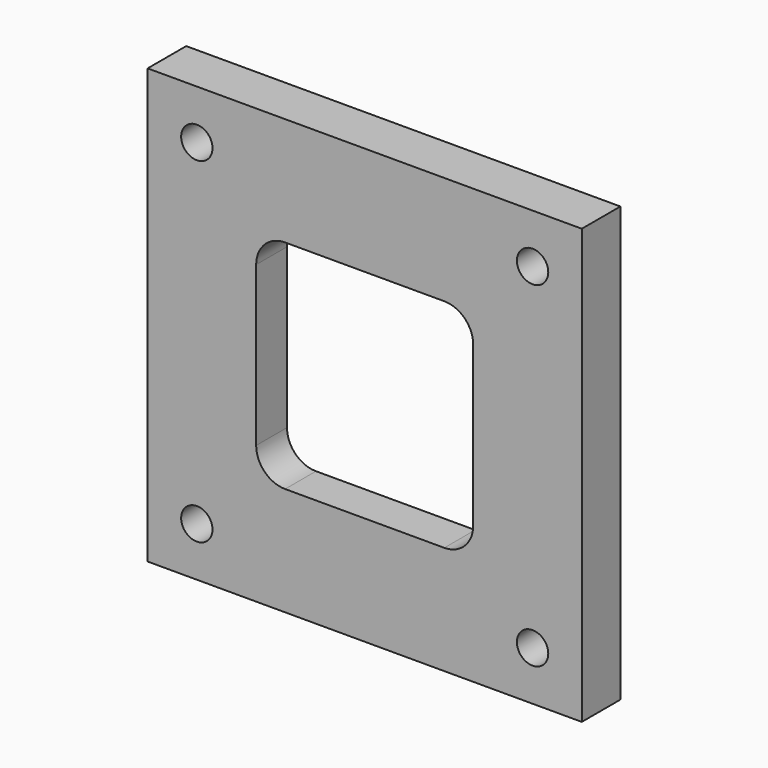
from build123d import *

# Parameters (mm, degrees)
F0_W     = 90
F0_H     = 90
F0_R     = 3.25
F1_DEPTH = 10
F3_DEPTH = 2
F5_DEPTH = 10.001


with BuildPart() as f1:
    # F0 (on Front) → F1 (new body)
    with BuildSketch(Plane.XZ):
        Rectangle(F0_W, F0_H)
        with Locations((-34.8, -34.8)):
            Circle(F0_R, mode=Mode.SUBTRACT)
        with Locations((34.8, -34.8)):
            Circle(F0_R, mode=Mode.SUBTRACT)
        with Locations((-34.8, 34.8)):
            Circle(F0_R, mode=Mode.SUBTRACT)
        with Locations((34.8, 34.8)):
            Circle(F0_R, mode=Mode.SUBTRACT)
    extrude(amount=F1_DEPTH)

    # F2 (on Front) → F3 (cut)
    with BuildSketch(Plane.XZ):
        with BuildLine():
            ThreePointArc((36.5, 32.5), (35.328427, 35.328427), (32.5, 36.5))
            Line((32.5, 36.5), (-32.5, 36.5))
            ThreePointArc((-32.5, 36.5), (-35.328427, 35.328427), (-36.5, 32.5))
            Line((-36.5, 32.5), (-36.5, -32.5))
            ThreePointArc((-36.5, -32.5), (-35.328427, -35.328427), (-32.5, -36.5))
            Line((-32.5, -36.5), (32.5, -36.5))
            ThreePointArc((32.5, -36.5), (35.328427, -35.328427), (36.5, -32.5))
            Line((36.5, -32.5), (36.5, 32.5))
        make_face()
    extrude(amount=F3_DEPTH, mode=Mode.SUBTRACT)

    # F4 (on Front) → F5 (cut, through all)
    with BuildSketch(Plane.XZ):
        with BuildLine():
            ThreePointArc((22.5, 16.5), (20.742641, 20.742641), (16.5, 22.5))
            Line((16.5, 22.5), (-16.5, 22.5))
            ThreePointArc((-16.5, 22.5), (-20.742641, 20.742641), (-22.5, 16.5))
            Line((-22.5, 16.5), (-22.5, -16.5))
            ThreePointArc((-22.5, -16.5), (-20.742641, -20.742641), (-16.5, -22.5))
            Line((-16.5, -22.5), (16.5, -22.5))
            ThreePointArc((16.5, -22.5), (20.742641, -20.742641), (22.5, -16.5))
            Line((22.5, -16.5), (22.5, 16.5))
        make_face()
    extrude(amount=F5_DEPTH, mode=Mode.SUBTRACT)


solid = f1.part
